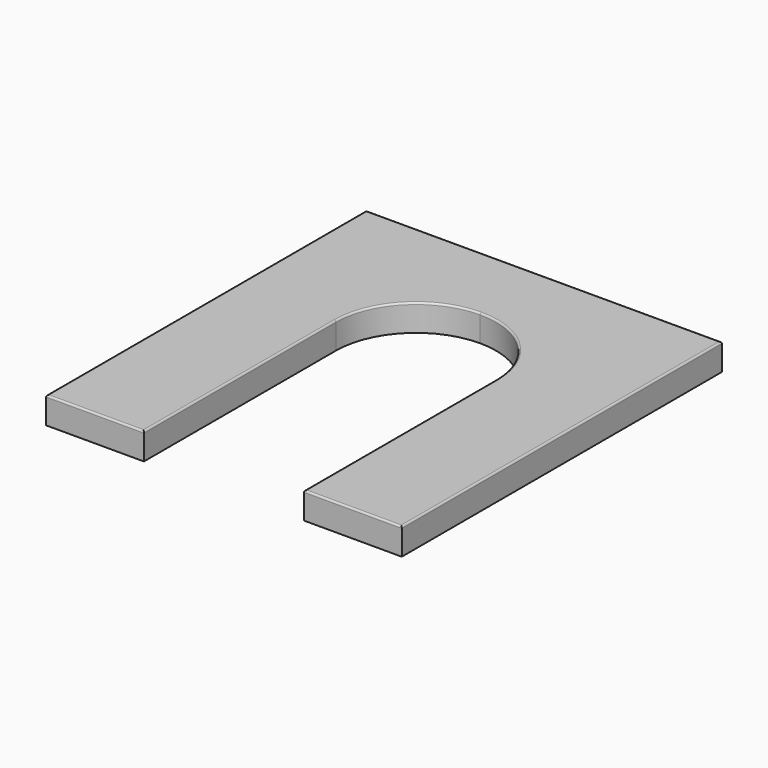
from build123d import *

# Parameters (mm, degrees)
F1_DEPTH = 3
F2_R     = 0.2


with BuildPart() as f1:
    # F0 (on Top) → F1 (new body)
    with BuildSketch(Plane.XY):
        with BuildLine():
            Line((20, 0), (0, 0))
            Line((0, 0), (-20, 0))
            Line((-20, 0), (-20, -45))
            Line((-20, -45), (-9, -45))
            Line((-9, -45), (-9, -18))
            ThreePointArc((-9, -18), (-6.363961, -11.636039), (0, -9))
            ThreePointArc((0, -9), (6.363961, -11.636039), (9, -18))
            Line((9, -18), (9, -45))
            Line((9, -45), (20, -45))
            Line((20, -45), (20, 0))
        make_face()
    extrude(amount=F1_DEPTH)

    # F2
    f2_edges = [f1.edges().sort_by_distance(p)[0] for p in [
        (0, 0, 3),
        (-20, -22.5, 3),
        (-14.5, -45, 3),
        (-9, -31.5, 3),
        (0, -9, 3),
        (9, -31.5, 3),
        (14.5, -45, 3),
        (20, -22.5, 3),
    ]]
    fillet(f2_edges, radius=F2_R)


solid = f1.part
